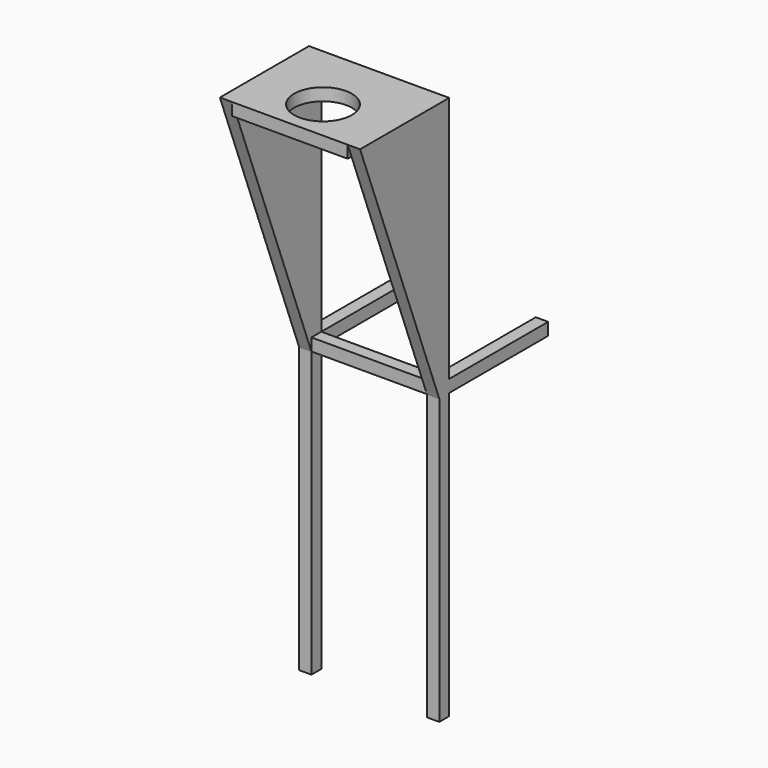
from build123d import *

# Parameters (mm, degrees)
F0_W      = 355.6
F0_H      = 38.1
F1_DEPTH  = 38.1
F2_W      = 38.1
F2_H      = 38.1
F3_DEPTH  = 381
F4_W      = 355.6
F4_H      = 38.1
F5_DEPTH  = 304.8
F7_DEPTH  = 38.1
F9_DEPTH  = 38.1
F10_R     = 88.9
F11_DEPTH = 38.1


with BuildPart() as f1:
    # F0 (on Front) → F1 (new body)
    with BuildSketch(Plane.XZ):
        Polygon((-47.268543, 0), (-85.368543, 0), (-85.368543, -1676.4), (-47.268543, -1676.4), (-47.268543, -800.1), (-47.268543, -762), (-47.268543, -38.1), align=None)
        with Locations((130.531457, -19.05)):
            Rectangle(F0_W, F0_H)
        Polygon((346.431457, 0), (308.331457, 0), (308.331457, -38.1), (308.331457, -762), (308.331457, -800.1), (308.331457, -1676.4), (346.431457, -1676.4), align=None)
        with Locations((130.531457, -781.05)):
            Rectangle(F0_W, F0_H)
    extrude(amount=F1_DEPTH)

    # F2 (on face) → F3 (join)
    with BuildSketch(Plane(origin=(0, 0, 0), x_dir=(-1, 0, 0), z_dir=(0, 1, 0))):
        with Locations((-327.381457, -781.05)):
            Rectangle(F2_W, F2_H)
        with Locations((66.318543, -781.05)):
            Rectangle(F2_W, F2_H)
    extrude(amount=F3_DEPTH)

    # F4 (on face) → F5 (join)
    with BuildSketch(Plane.XZ.offset(38.1)):
        Polygon((-47.268543, 0), (-85.368543, 0), (-85.368543, -800.1), (-47.268543, -800.1), (-47.268543, -38.1), align=None)
        with Locations((130.531457, -19.05)):
            Rectangle(F4_W, F4_H)
        Polygon((346.431457, 0), (308.331457, 0), (308.331457, -38.1), (308.331457, -800.1), (346.431457, -800.1), align=None)
    extrude(amount=F5_DEPTH)

    # F6 (on face) → F7 (cut)
    with BuildSketch(Plane(origin=(-85.368543, 0, 0), x_dir=(0, -1, 0), z_dir=(-1, 0, 0))):
        Polygon((342.9, 0), (38.1, -800.1), (342.9, -800.1), align=None)
    extrude(amount=-F7_DEPTH, mode=Mode.SUBTRACT)

    # F8 (on face) → F9 (cut)
    with BuildSketch(Plane.YZ.offset(346.431457)):
        Polygon((-342.9, -800.1), (-38.1, -800.1), (-342.9, 0), align=None)
    extrude(amount=-F9_DEPTH, mode=Mode.SUBTRACT)

    # F10 (on face) → F11 (cut)
    with BuildSketch(Plane.XY):
        with Locations((130.531457, -215.9)):
            Circle(F10_R)
    extrude(amount=-F11_DEPTH, mode=Mode.SUBTRACT)


solid = f1.part
